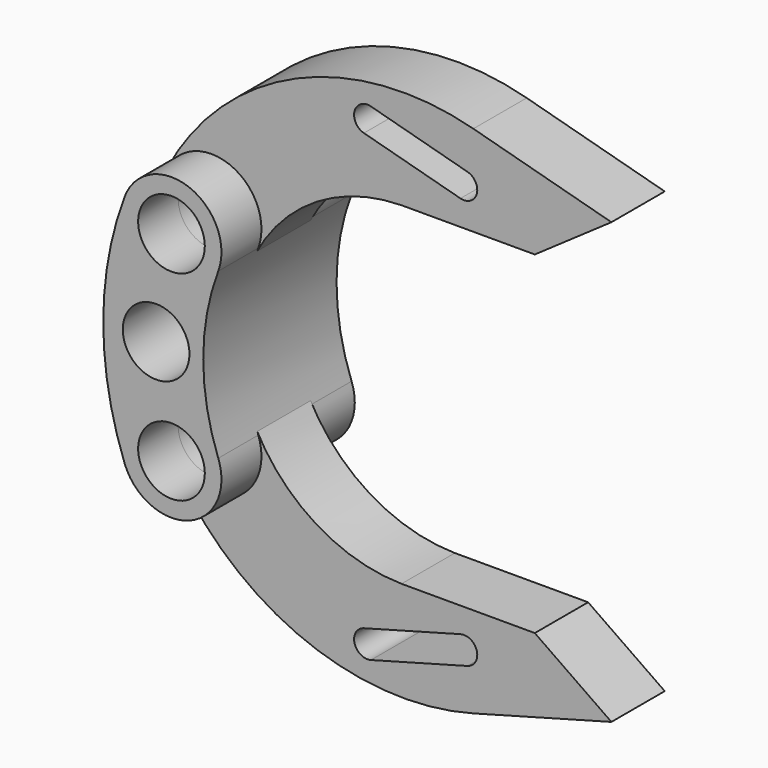
from build123d import *

# Parameters (mm, degrees)
F0_R     = 5
F1_DEPTH = 12.5
F2_R     = 5
F3_DEPTH = 5
F4_R     = 5
F5_DEPTH = 25.001


with BuildPart() as f1:
    # F0 (on Front) → F1 (new body, symmetric)
    with BuildSketch(Plane.XZ):
        with BuildLine():
            ThreePointArc((7.0173413473, -12.3529411765), (4.7649343015, 0), (7.0173413473, 12.3529411765))
            ThreePointArc((7.0173413473, 12.3529411765), (2.6470588235, 22.0173413473), (-7.0173413473, 17.6470588235))
            ThreePointArc((-7.0173413473, 17.6470588235), (-10.2350656985, 0), (-7.0173413473, -17.6470588235))
            ThreePointArc((-7.0173413473, -17.6470588235), (2.6470588235, -22.0173413473), (7.0173413473, -12.3529411765))
        make_face()
        with Locations((0, -15)):
            Circle(F0_R, mode=Mode.SUBTRACT)
        with Locations((0, 15)):
            Circle(F0_R, mode=Mode.SUBTRACT)
    extrude(amount=F1_DEPTH, both=True)

    # F4 (on face) → F5 (cut, through all)
    with BuildSketch(Plane.XZ.offset(12.5)):
        with Locations((-2.3030399292, 0)):
            Circle(F4_R)
    extrude(amount=-F5_DEPTH, mode=Mode.SUBTRACT)


with BuildPart() as f3:
    # F2 (on Front) → F3 (new body, symmetric)
    with BuildSketch(Plane.XZ):
        with BuildLine():
            ThreePointArc((6.6534014969, 11.5384615385), (7.2852766326, 13.2182187602), (7.5, 15))
            ThreePointArc((7.5, 15), (1.7817812398, 22.2852766326), (-6.6534014969, 18.4615384615))
            ThreePointArc((-6.6534014969, 18.4615384615), (-3.4615384615, 8.3465985031), (6.6534014969, 11.5384615385))
        make_face()
        with Locations((0, 15)):
            Circle(F2_R, mode=Mode.SUBTRACT)
        with BuildLine():
            ThreePointArc((-6.6534014969, 18.4615384615), (1.7817812398, 22.2852766326), (7.5, 15))
            ThreePointArc((7.5, 15), (7.2852766326, 13.2182187602), (6.6534014969, 11.5384615385))
            ThreePointArc((6.6534014969, 11.5384615385), (15.7213002354, 21.286735637), (28.5073433164, 24.997899573))
            Line((28.5073433164, 24.997899573), (48.5073433164, 24.997899573))
            Line((48.5073433164, 24.997899573), (60, 32.997899573))
            Line((60, 32.997899573), (39.2909124051, 38.6082728951))
            ThreePointArc((39.2909124051, 38.6082728951), (12.7678090394, 36.6327836378), (-6.6534014969, 18.4615384615))
        make_face()
        with BuildLine():
            ThreePointArc((22.8734908291, 32.6955017519), (21.4660524803, 35.1488906926), (23.919441421, 36.5563290414))
            Line((23.919441421, 36.5563290414), (38.3975437566, 32.6340143221))
            ThreePointArc((38.3975437566, 32.6340143221), (39.8049821055, 30.1806253814), (37.3515931648, 28.7731870325))
            Line((37.3515931648, 28.7731870325), (22.8734908291, 32.6955017519))
        make_face(mode=Mode.SUBTRACT)
    extrude(amount=F3_DEPTH, both=True)


with BuildPart() as f3b:
    # F2 (on Front) → F3, piece 2 (new body, symmetric)
    with BuildSketch(Plane.XZ):
        with BuildLine():
            ThreePointArc((-6.6534014969, -18.4615384615), (1.7817812398, -22.2852766326), (7.5, -15))
            ThreePointArc((7.5, -15), (7.2852766326, -13.2182187602), (6.6534014969, -11.5384615385))
            ThreePointArc((6.6534014969, -11.5384615385), (-3.4615384615, -8.3465985031), (-6.6534014969, -18.4615384615))
        make_face()
        with Locations((0, -15)):
            Circle(F2_R, mode=Mode.SUBTRACT)
        with BuildLine():
            ThreePointArc((6.6534014969, -11.5384615385), (7.2852766326, -13.2182187602), (7.5, -15))
            ThreePointArc((7.5, -15), (1.7817812398, -22.2852766326), (-6.6534014969, -18.4615384615))
            ThreePointArc((-6.6534014969, -18.4615384615), (12.7678090394, -36.6327836378), (39.2909124051, -38.6082728951))
            Line((39.2909124051, -38.6082728951), (60, -32.997899573))
            Line((60, -32.997899573), (48.5073433164, -24.997899573))
            Line((48.5073433164, -24.997899573), (28.5073433164, -24.997899573))
            ThreePointArc((28.5073433164, -24.997899573), (15.7213002354, -21.286735637), (6.6534014969, -11.5384615385))
        make_face()
        with BuildLine():
            Line((22.8734908291, -32.6955017519), (37.3515931648, -28.7731870325))
            ThreePointArc((37.3515931648, -28.7731870325), (39.8049821055, -30.1806253814), (38.3975437566, -32.6340143221))
            Line((38.3975437566, -32.6340143221), (23.919441421, -36.5563290414))
            ThreePointArc((23.919441421, -36.5563290414), (21.4660524803, -35.1488906926), (22.8734908291, -32.6955017519))
        make_face(mode=Mode.SUBTRACT)
    extrude(amount=F3_DEPTH, both=True)


solid = Compound([f1.part, f3.part, f3b.part])
